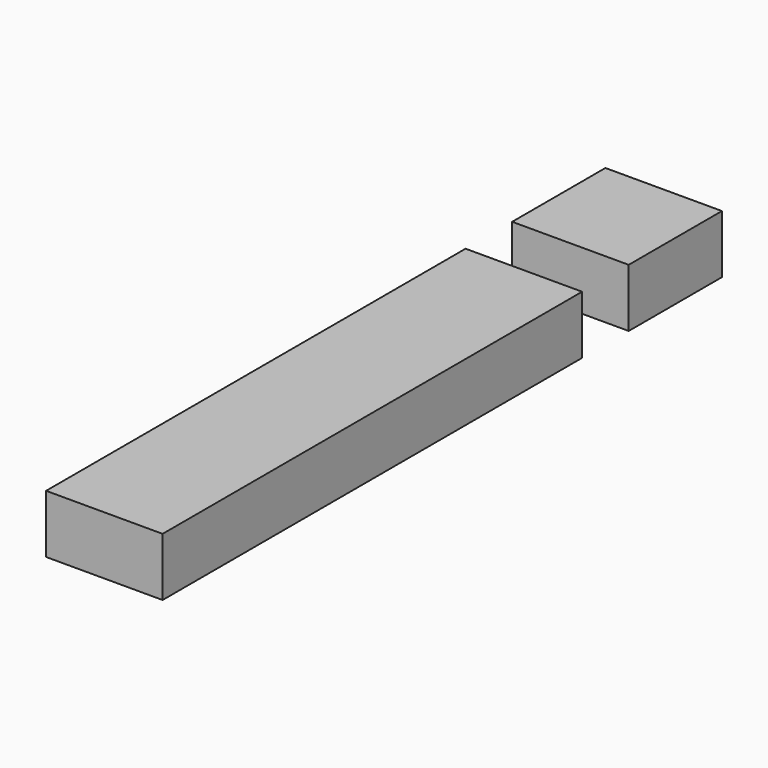
from build123d import *

# Parameters (mm, degrees)
F0_W     = 50
F0_H     = 225
F0_H_2   = 50
F1_DEPTH = 25


with BuildPart() as f1:
    # F0 (on Top) → F1 (new body)
    with BuildSketch(Plane.XY):
        Rectangle(F0_W, F0_H)
        with Locations((0, 162.5)):
            Rectangle(F0_W, F0_H_2)
    extrude(amount=F1_DEPTH)


solid = f1.part
